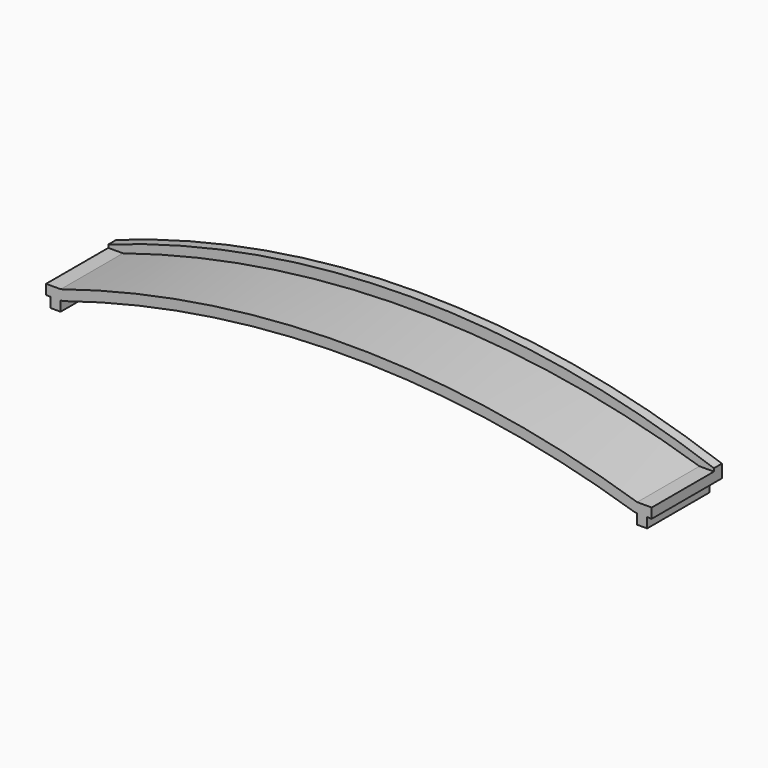
from build123d import *

# Parameters (mm, degrees)
F1_DEPTH = 0.6096
F2_W     = 0.6096
F2_H     = 0.6096
F3_DEPTH = 4.7625
F5_DEPTH = 4.7625


with BuildPart() as f1:
    # F0 (on Front) → F1 (new body)
    with BuildSketch(Plane.XZ):
        with BuildLine():
            Line((-37.084, 0), (0, 0))
            Line((0, 0), (0, 0.79375))
            ThreePointArc((0, 0.79375), (-18.542, 4.000644), (-37.084, 0.79375))
            Line((-37.084, 0.79375), (-37.084, 0))
        make_face()
    extrude(amount=-F1_DEPTH)

    # F2 (on face) → F3 (join)
    with BuildSketch(Plane.XZ):
        Polygon((-37.084, 0.6096), (-37.084, 0), (-36.8046, 0), (-36.195, 0), (-36.184512, 0.6096), align=None)
        with Locations((-36.4998, -0.3048)):
            Rectangle(F2_W, F2_H)
        with Locations((-0.5842, -0.3048)):
            Rectangle(F2_W, F2_H)
        Polygon((-0.889, 0.6096), (-0.889, 0), (-0.2794, 0), (0, 0), (0, 0.6096), align=None)
    extrude(amount=F3_DEPTH)

    # F4 (on face) → F5 (join)
    with BuildSketch(Plane.XZ):
        with BuildLine():
            Line((-0.889, 0), (-0.889, 0.6096))
            ThreePointArc((-0.889, 0.6096), (-18.536756, 3.338909), (-36.184512, 0.6096))
            Line((-36.184512, 0.6096), (-36.195, 0))
            Line((-36.195, 0), (-36.000362, 0.02848))
            ThreePointArc((-36.000362, 0.02848), (-18.536756, 2.729309), (-1.07315, 0.02848))
            Line((-1.07315, 0.02848), (-0.889, 0))
        make_face()
    extrude(amount=F5_DEPTH)


solid = f1.part
